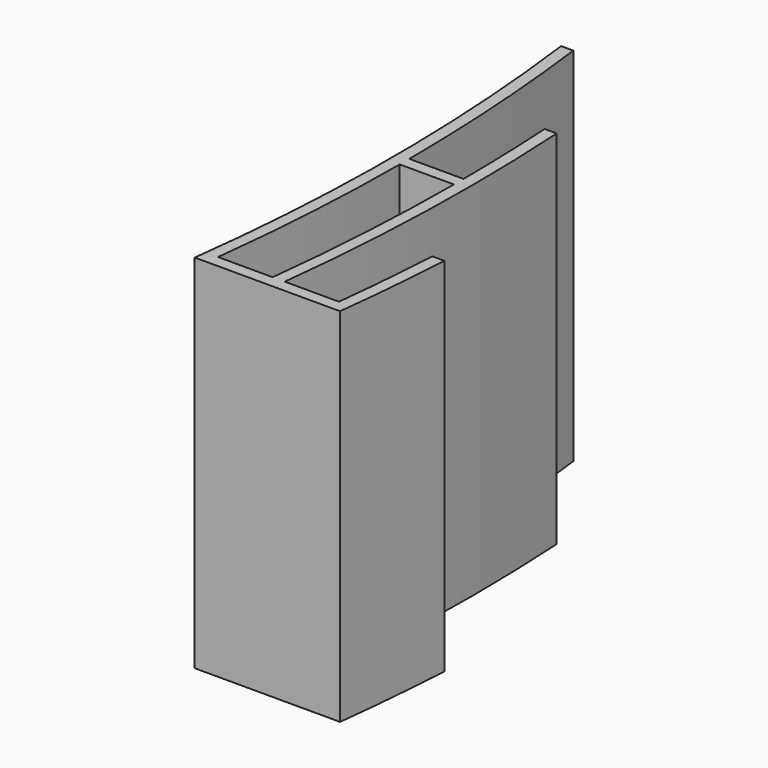
from build123d import *

# Parameters (mm, degrees)
PAD_DEPTH = 60


with BuildPart() as part:
    # Sketch → Pad (new body)
    with BuildSketch(Plane.XY):
        with BuildLine():
            Line((2.414743, -35), (11.414743, -35))
            ThreePointArc((11.414743, -35), (11.263358, -26.246135), (10.865622, -17.5))
            Line((10.865622, -17.5), (12.865622, -17.5))
            ThreePointArc((11.335628, -72), (13.289566, -44.783378), (12.865622, -17.5))
            Line((11.335628, -72), (20.335628, -72))
            ThreePointArc((20.335628, -72), (21.198564, -63.260143), (21.822782, -54.5))
            Line((21.822782, -54.5), (23.822782, -54.5))
            ThreePointArc((22.11492, -74), (23.116177, -64.262903), (23.822782, -54.5))
            Line((22.11492, -74), (-2, -74))
            ThreePointArc((-2, -74), (0.416398, -36), (-2, 2))
            Line((-2, 2), (0.016131, 2))
            ThreePointArc((2.414743, -35), (1.783801, -16.463154), (0.016131, 2))
        make_face()
        with BuildLine():
            Line((2.414743, -37), (11.414743, -37))
            ThreePointArc((9.325722, -72), (10.863864, -54.529463), (11.414743, -37))
            Line((9.325722, -72), (0.263026, -72))
            ThreePointArc((0.263026, -72), (1.847307, -54.531257), (2.414743, -37))
        make_face(mode=Mode.SUBTRACT)
    extrude(amount=PAD_DEPTH)


solid = part.part
